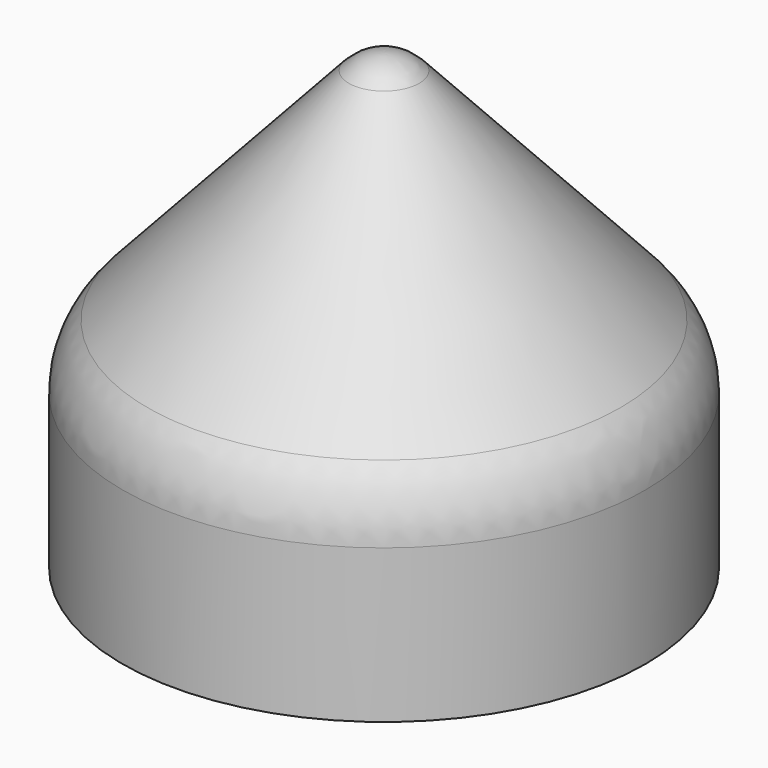
from build123d import *

# Parameters (mm, degrees)
F0_W = 69.85
F0_H = 50.8
F2_T = -2.54
F3_R = 25.4


with BuildPart() as f1:
    # F0 (on Front) → F1 (revolve)
    with BuildSketch(Plane.XZ):
        with Locations((34.925, -25.4)):
            Rectangle(F0_W, F0_H)
        with BuildLine():
            Line((0, 70.105362), (0, 0))
            Line((0, 0), (69.85, 0))
            Line((69.85, 0), (9.361858, 65.987064))
            ThreePointArc((9.361858, 65.987064), (5.113823, 69.030284), (0, 70.105362))
        make_face()
    revolve(axis=Axis((0, 0, 38.1), (0, 0, 1)))

    # F2
    f2_openings = [f1.faces().sort_by_distance(p)[0] for p in [
        (0, 0, -50.8),
    ]]
    offset(amount=F2_T, openings=f2_openings)

    # F3
    f3_edges = [f1.edges().sort_by_distance(p)[0] for p in [
        (-69.85, 0, 0),
    ]]
    fillet(f3_edges, radius=F3_R)


solid = f1.part
